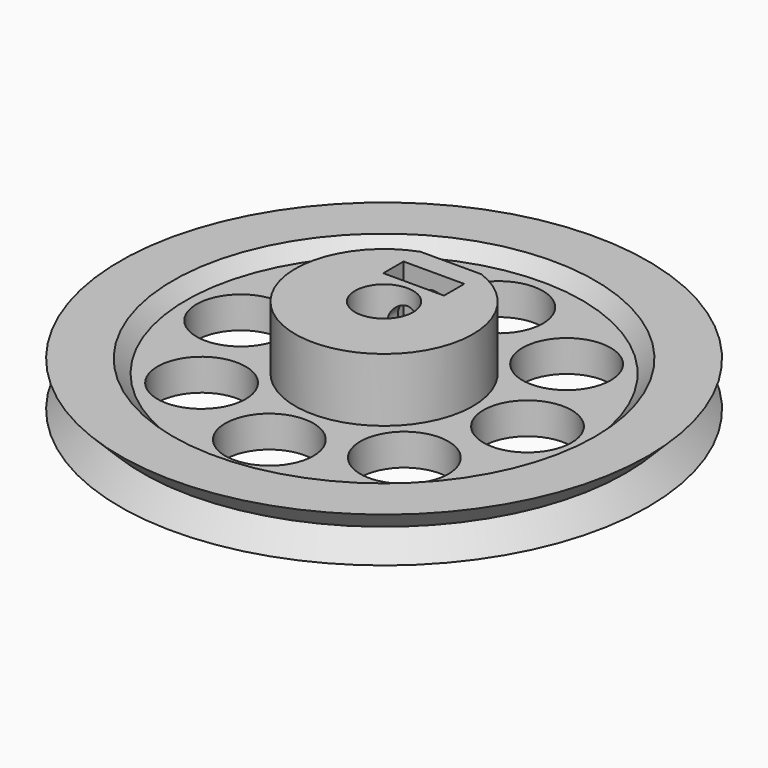
from build123d import *

# Parameters (mm, degrees)
F0_R     = 2.75
F0_W     = 5.75
F0_H     = 2.4
F1_DEPTH = 7
F4_R     = 4.1752398448
F5_DEPTH = 3.001
F6_R     = 1.5
F7_DEPTH = 6.595113986


with BuildPart() as f1:
    # F0 (on Top) → F1 (new body)
    with BuildSketch(Plane.XY):
        with BuildLine():
            Line((2.875, 7.9), (-2.875, 7.9))
            ThreePointArc((-2.875, 7.9), (0, -8.4068796233), (2.875, 7.9))
        make_face()
        Circle(F0_R, mode=Mode.SUBTRACT)
        with Locations((0, 4.7)):
            Rectangle(F0_W, F0_H, mode=Mode.SUBTRACT)
    extrude(amount=F1_DEPTH)

    # F2 (on Front) → F3 (revolve)
    with BuildSketch(Plane.XZ):
        Polygon((0, 1), (0, 0), (0, -2), (25, -2), (22.8786796564, 0.1213203436), (25, 2.2426406871), (20, 2.2426406871), (18.7573593129, 1), align=None)
    revolve(axis=Axis((0, 0, -1), (0, 0, 1)))

    # F4 (on face) → F5 (cut, through all)
    with BuildSketch(Plane.XY.offset(1)):
        with Locations((13.5821194681, 0)):
            Circle(F4_R)
        with Locations((9.6040087788, -9.6040087788)):
            Circle(F4_R)
        with Locations((0, -13.5821194681)):
            Circle(F4_R)
        with Locations((-9.6040087788, -9.6040087788)):
            Circle(F4_R)
        with Locations((-13.5821194681, 0)):
            Circle(F4_R)
        with Locations((-9.6040087788, 9.6040087788)):
            Circle(F4_R)
        with Locations((0, 13.5821194681)):
            Circle(F4_R)
        with Locations((9.6040087788, 9.6040087788)):
            Circle(F4_R)
    extrude(amount=-F5_DEPTH, mode=Mode.SUBTRACT)

    # F6 (on face) → F7 (cut, up to face)
    with BuildSketch(Plane(origin=(0, 7.9, 0), x_dir=(-1, 0, 0), z_dir=(0, 1, 0))):
        with Locations((0, 4)):
            Circle(F6_R)
    extrude(amount=-F7_DEPTH, mode=Mode.SUBTRACT)


solid = f1.part
